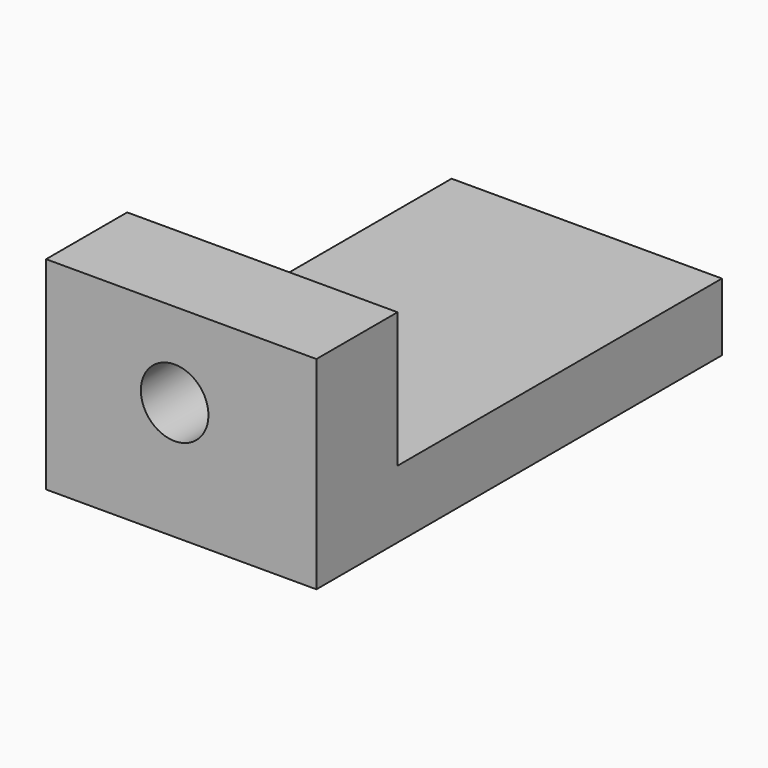
from build123d import *

# Parameters (mm, degrees)
F0_W     = 3
F0_H     = 4
F1_DEPTH = 8
F2_R     = 1
F3_DEPTH = 4


with BuildPart() as f1:
    # F0 (on Right) → F1 (new body)
    with BuildSketch(Plane.YZ):
        with Locations((-30.213129, 21.279677)):
            Rectangle(F0_W, F0_H)
        Polygon((-28.713129, 19.279677), (-31.713129, 19.279677), (-31.713129, 17.279677), (-16.713129, 17.279677), (-16.713129, 19.279677), align=None)
    extrude(amount=-F1_DEPTH)

    # F2 (on face) → F3 (cut)
    with BuildSketch(Plane.XZ.offset(31.713129)):
        with Locations((-4.195203, 20.776359)):
            Circle(F2_R)
    extrude(amount=-F3_DEPTH, mode=Mode.SUBTRACT)


solid = f1.part
